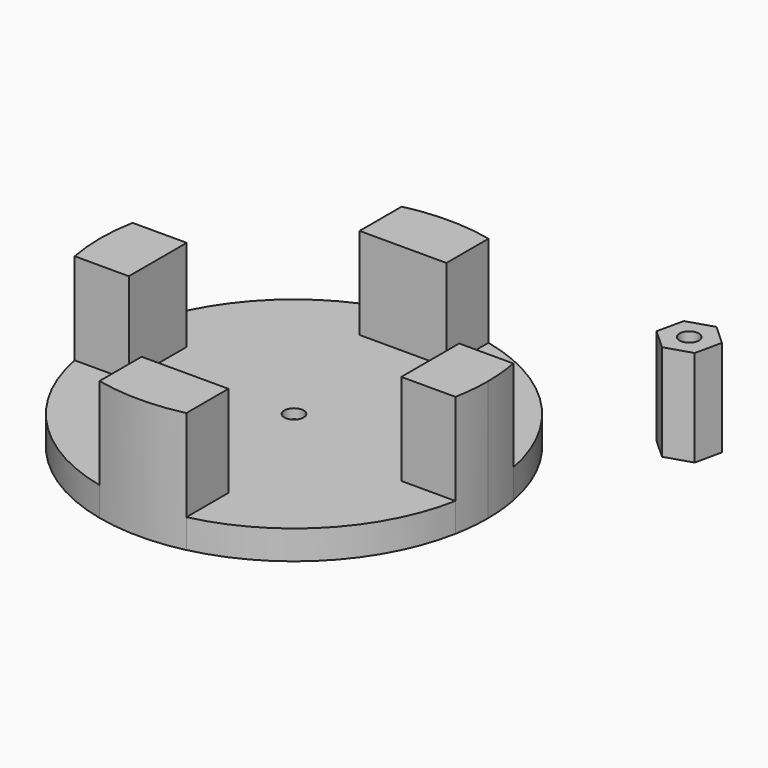
from build123d import *

# Parameters (mm, degrees)
F1_DEPTH  = 25
F2_DEPTH  = 6
F4_DEPTH  = 4
F5_R      = 2
F6_DEPTH  = 25
F8_DEPTH  = 20
F9_R      = 2
F10_DEPTH = 10


with BuildPart() as f1:
    # F0 (on Top) → F1 (new body)
    with BuildSketch(Plane.XY):
        with BuildLine():
            Line((-28.25, 7.5), (-39.470594, 7.5))
            ThreePointArc((-39.470594, 7.5), (-40.176831, 0), (-39.470594, -7.5))
            Line((-39.470594, -7.5), (-28.25, -7.5))
            Line((-28.25, -7.5), (-28.25, 7.5))
        make_face()
        with BuildLine():
            Line((-9, 28.25), (9, 28.25))
            Line((9, 28.25), (9, 39.155814))
            ThreePointArc((9, 39.155814), (0, 40.176831), (-9, 39.155814))
            Line((-9, 39.155814), (-9, 28.25))
        make_face()
        with BuildLine():
            ThreePointArc((40.176831, 0), (39.999882, 3.766589), (39.470594, 7.5))
            Line((39.470594, 7.5), (28.25, 7.5))
            Line((28.25, 7.5), (28.25, -7.5))
            Line((28.25, -7.5), (39.470594, -7.5))
            ThreePointArc((39.470594, -7.5), (39.999882, -3.766589), (40.176831, 0))
        make_face()
        with BuildLine():
            Line((-9, -28.25), (-9, -39.155814))
            ThreePointArc((-9, -39.155814), (0, -40.176831), (9, -39.155814))
            Line((9, -39.155814), (9, -28.25))
            Line((9, -28.25), (-9, -28.25))
        make_face()
    extrude(amount=F1_DEPTH)

    # F0 (on Top) → F2 (join)
    with BuildSketch(Plane.XY):
        with BuildLine():
            Line((9, 39.155814), (9, 28.25))
            Line((9, 28.25), (-9, 28.25))
            Line((-9, 28.25), (-9, 39.155814))
            ThreePointArc((-9, 39.155814), (-28.946023, 27.86226), (-39.470594, 7.5))
            Line((-39.470594, 7.5), (-28.25, 7.5))
            Line((-28.25, 7.5), (-28.25, -7.5))
            Line((-28.25, -7.5), (-39.470594, -7.5))
            ThreePointArc((-39.470594, -7.5), (-28.946023, -27.86226), (-9, -39.155814))
            Line((-9, -39.155814), (-9, -28.25))
            Line((-9, -28.25), (9, -28.25))
            Line((9, -28.25), (9, -39.155814))
            ThreePointArc((9, -39.155814), (28.946023, -27.86226), (39.470594, -7.5))
            Line((39.470594, -7.5), (28.25, -7.5))
            Line((28.25, -7.5), (28.25, 7.5))
            Line((28.25, 7.5), (39.470594, 7.5))
            ThreePointArc((39.470594, 7.5), (28.946023, 27.86226), (9, 39.155814))
        make_face()
    extrude(amount=F2_DEPTH)

    # F3 (on face) → F4 (cut)
    with BuildSketch(Plane(origin=(0, 0, 0), x_dir=(1, 0, 0), z_dir=(0, 0, -1))):
        Polygon((-1.216986, -5.539841), (4.18915, -3.823861), (5.406136, 1.71598), (1.216986, 5.539841), (-4.18915, 3.823861), (-5.406136, -1.71598), align=None)
    extrude(amount=-F4_DEPTH, mode=Mode.SUBTRACT)

    # F5 (on face) → F6 (cut)
    with BuildSketch(Plane(origin=(0, 0, 4), x_dir=(1, 0, 0), z_dir=(0, 0, -1))):
        Circle(F5_R)
    extrude(amount=-F6_DEPTH, mode=Mode.SUBTRACT)


with BuildPart() as f8:
    # F7 (on Top) → F8 (new body)
    with BuildSketch(Plane.XY):
        Polygon((48.706918, 34.488303), (54.113054, 36.204282), (55.33004, 41.744123), (51.14089, 45.567985), (45.734754, 43.852005), (44.517768, 38.312164), align=None)
    extrude(amount=F8_DEPTH)

    # F9 (on face) → F10 (cut)
    with BuildSketch(Plane.XY.offset(20)):
        with Locations((49.923904, 40.028144)):
            Circle(F9_R)
    extrude(amount=-F10_DEPTH, mode=Mode.SUBTRACT)


with BuildPart() as f11_1:
    # F11: copy of F1
    add(f1.part)


solid = Compound([f1.part, f8.part, f11_1.part])
